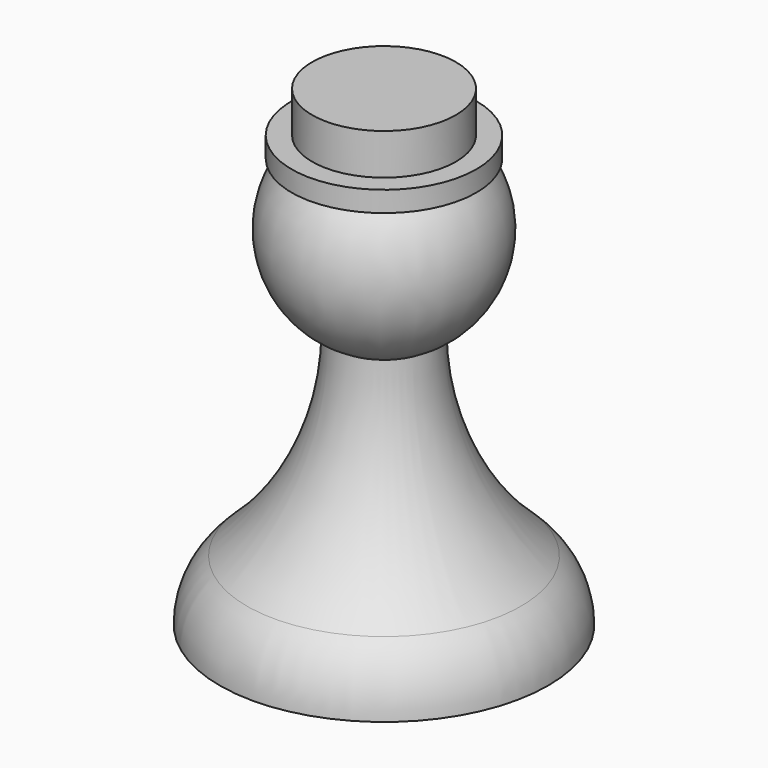
from build123d import *

# Parameters (mm, degrees)
F3_R     = 5.715
F3_R_2   = 4.445
F4_DEPTH = 1.27
F5_DEPTH = 3.81


with BuildPart() as f1:
    # F0 (on Front) → F1 (revolve)
    with BuildSketch(Plane.XZ):
        with BuildLine():
            Line((0, 15.24), (0, 27.94))
            ThreePointArc((0, 27.94), (-6.155362, 23.150133), (-3.024626, 16.006619))
            ThreePointArc((-3.024626, 16.006619), (-1.560133, 15.434638), (0, 15.24))
        make_face()
        with BuildLine():
            ThreePointArc((0, 15.24), (-1.560133, 15.434638), (-3.024626, 16.006619))
            ThreePointArc((-3.024626, 16.006619), (-4.449628, 9.310037), (-8.477709, 3.773845))
            ThreePointArc((-8.477709, 3.773845), (-9.720383, 2.065915), (-10.16, 0))
            Line((-10.16, 0), (0, 0))
            Line((0, 0), (0, 15.24))
        make_face()
    revolve(axis=Axis((0, 0, 13.97), (0, 0, -1)))

    # F3 (on offset) → F4 (join)
    with BuildSketch(Plane.XY.offset(25.4)):
        Circle(F3_R)
        Circle(F3_R_2, mode=Mode.SUBTRACT)
    extrude(amount=F4_DEPTH)

    # F3 (on offset) → F5 (join)
    with BuildSketch(Plane.XY.offset(25.4)):
        Circle(F3_R_2)
    extrude(amount=F5_DEPTH)


solid = f1.part
